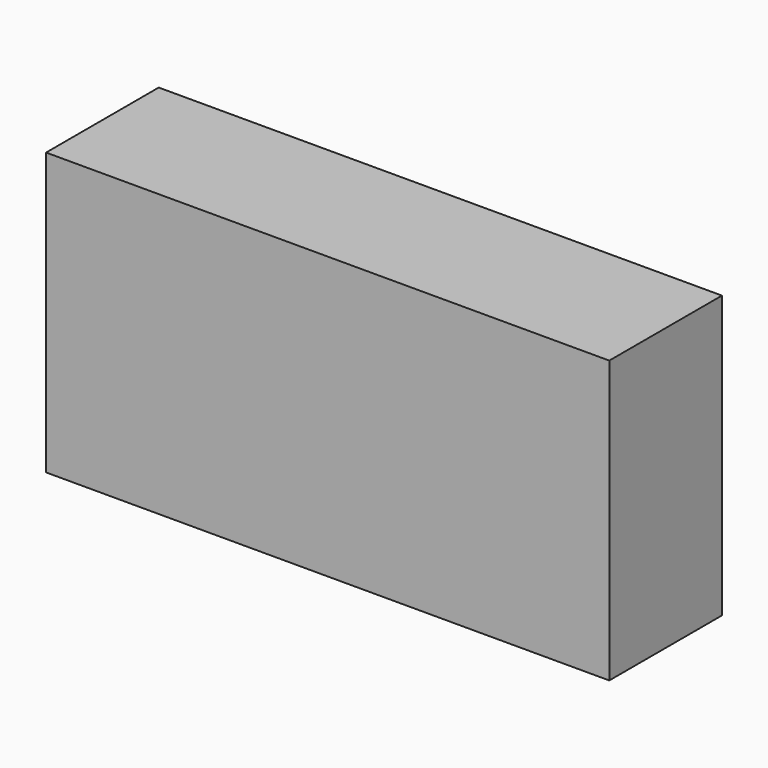
from build123d import *

# Parameters (mm, degrees)
F1_DEPTH = 25
F2_W     = 36.685333
F2_H     = 12.079631
F3_DEPTH = 1


with BuildPart() as f1:
    # F0 (on Front) → F1 (new body)
    with BuildSketch(Plane.XZ):
        Polygon((-50, 0), (0, 0), (50, 0), (50, 50), (0, 50), (-50, 50), align=None)
    extrude(amount=F1_DEPTH)

    # F2 (on face) → F3 (join)
    with BuildSketch(Plane(origin=(0, 0, 0), x_dir=(-1, 0, 0), z_dir=(0, 1, 0))):
        with Locations((-25.573909, 6.039815)):
            Rectangle(F2_W, F2_H)
        with Locations((25.573909, 6.039815)):
            Rectangle(F2_W, F2_H)
    extrude(amount=F3_DEPTH)


solid = f1.part
